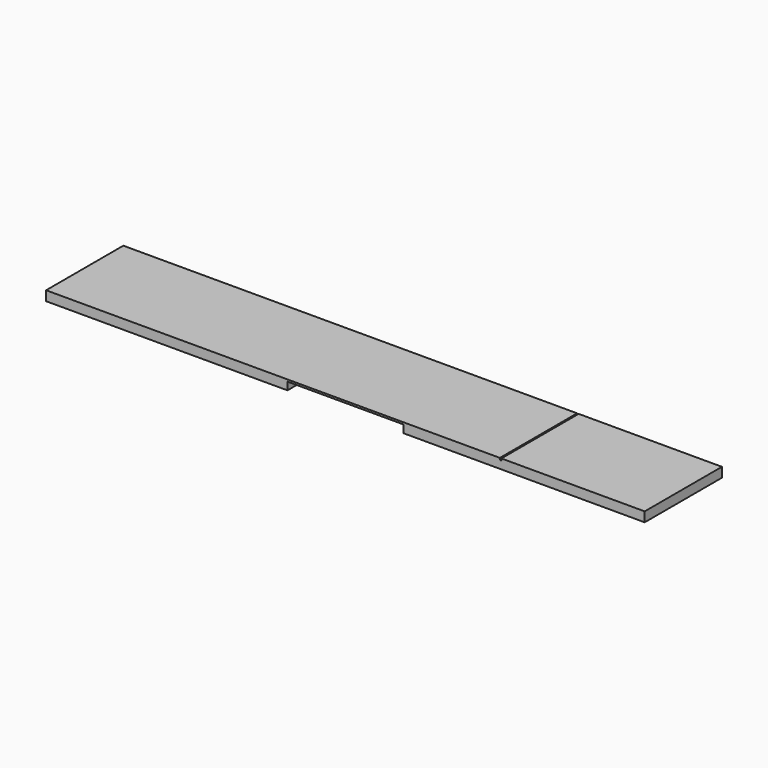
from build123d import *

# Parameters (mm, degrees)
F1_DEPTH = 25
F2_W     = 0.4
F2_H     = 25
F3_DEPTH = 0.5


with BuildPart() as f1:
    # F0 (on Front) → F1 (new body)
    with BuildSketch(Plane.XZ):
        Polygon((77.5, 0), (-77.5, 0), (-77.5, -2.5), (-15, -2.5), (-15, -0.5), (15, -0.5), (15, -2.5), (77.5, -2.5), align=None)
    extrude(amount=F1_DEPTH)

    # F2 (on face) → F3 (cut, through all)
    with BuildSketch(Plane.XY):
        with Locations((40.2, -12.5)):
            Rectangle(F2_W, F2_H)
    extrude(amount=-F3_DEPTH, mode=Mode.SUBTRACT)


solid = f1.part
